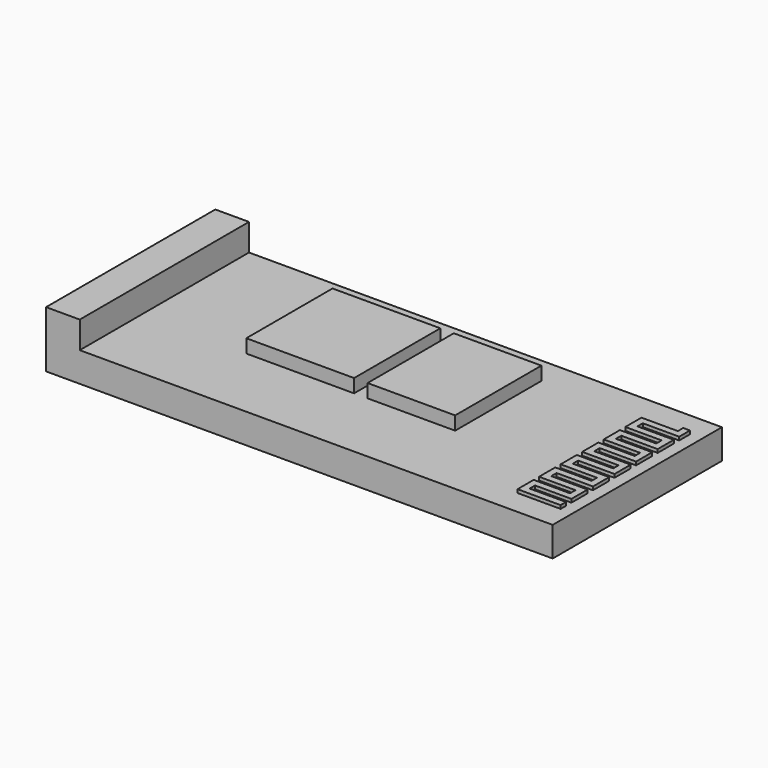
from build123d import *

# Parameters (mm, degrees)
F0_W     = 37.6
F0_H     = 15.7
F1_DEPTH = 2.2
F3_DEPTH = 0.25
F4_W     = 2.5
F4_H     = 15.7
F5_DEPTH = 2
F6_W     = 8
F6_H     = 8
F6_W_2   = 6.5
F7_DEPTH = 1


with BuildPart() as f1:
    # F0 (on Top) → F1 (new body)
    with BuildSketch(Plane.XY):
        Rectangle(F0_W, F0_H)
    extrude(amount=F1_DEPTH)

    # F2 (on face) → F3 (join)
    with BuildSketch(Plane.XY.offset(2.2)):
        Polygon((17.908588, 6), (17.408588, 6), (17.408588, 5.5), (14.708588, 5.5), (14.708588, 4), (15.208588, 4), (17.408588, 4), (17.408588, 3.5), (14.708588, 3.5), (14.708588, 2), (17.408588, 2), (17.408588, 1.5), (14.708588, 1.5), (14.708588, 0), (17.408588, 0), (17.408588, -0.5), (14.708588, -0.5), (14.708588, -2), (17.408588, -2), (17.408588, -2.5), (14.708588, -2.5), (14.708588, -4), (17.408588, -4), (17.408588, -4.5), (14.708588, -4.5), (14.708588, -6), (17.908588, -6), (17.908588, -5.5), (15.208588, -5.5), (15.208588, -5), (17.908588, -5), (17.908588, -3.5), (15.208588, -3.5), (15.208588, -3), (17.908588, -3), (17.908588, -1.5), (15.208588, -1.5), (15.208588, -1), (17.908588, -1), (17.908588, 0.5), (15.208588, 0.5), (15.208588, 1), (17.908588, 1), (17.908588, 2.5), (15.208588, 2.5), (15.208588, 3), (17.908588, 3), (17.908588, 4.5), (15.208588, 4.5), (15.208588, 5), (17.908588, 5), align=None)
    extrude(amount=F3_DEPTH)

    # F4 (on face) → F5 (join)
    with BuildSketch(Plane.XY.offset(2.2)):
        with Locations((-17.55, 0)):
            Rectangle(F4_W, F4_H)
    extrude(amount=F5_DEPTH)

    # F6 (on face) → F7 (join)
    with BuildSketch(Plane.XY.offset(2.2)):
        with Locations((-4.5, 1.85)):
            Rectangle(F6_W, F6_H)
        with Locations((3.75, 1.85)):
            Rectangle(F6_W_2, F6_H)
    extrude(amount=F7_DEPTH)


solid = f1.part
